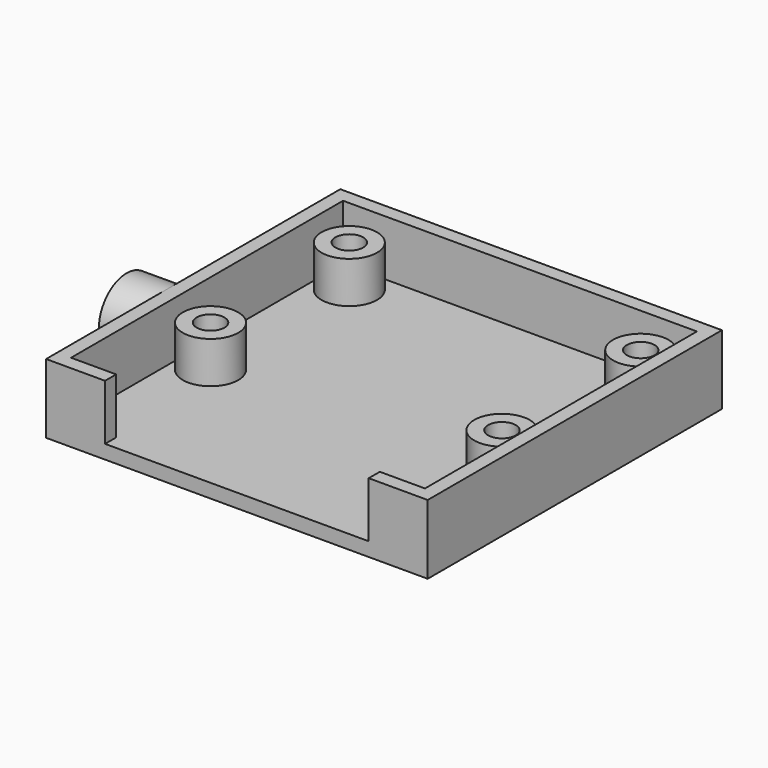
from build123d import *

# Parameters (mm, degrees)
SKETCH_W        = 27.5
SKETCH_H        = 26.5
PAD_DEPTH       = 5
SKETCH001_W     = 25.5
SKETCH001_H     = 24.5
POCKET_DEPTH    = 4
SKETCH002_W     = 19
SKETCH002_H     = 4
POCKET001_DEPTH = 1
SKETCH003_R     = 2
SKETCH003_R_2   = 1
PAD001_DEPTH    = 3
SKETCH004_R     = 2.5
SKETCH004_R_2   = 1.85
PAD002_DEPTH    = 3


with BuildPart() as part:
    # Sketch → Pad (new body)
    with BuildSketch(Plane.XY):
        with Locations((13.75, 13.25)):
            Rectangle(SKETCH_W, SKETCH_H)
    extrude(amount=PAD_DEPTH)

    # Sketch001 → Pocket (cut)
    with BuildSketch(Plane.XY.offset(5)):
        with Locations((13.75, 13.25)):
            Rectangle(SKETCH001_W, SKETCH001_H)
    extrude(amount=-POCKET_DEPTH, mode=Mode.SUBTRACT)

    # Sketch002 → Pocket001 (cut)
    with BuildSketch(Plane.XZ):
        with Locations((13.75, 3)):
            Rectangle(SKETCH002_W, SKETCH002_H)
    extrude(amount=-POCKET001_DEPTH, mode=Mode.SUBTRACT)

    # Sketch003 → Pad001 (new body)
    with BuildSketch(Plane.XY.offset(1)):
        with Locations((24.25, 10.75)):
            Circle(SKETCH003_R)
        with Locations((24.25, 10.75)):
            Circle(SKETCH003_R_2, mode=Mode.SUBTRACT)
        with Locations((3.25, 10.75)):
            Circle(SKETCH003_R)
        with Locations((3.25, 10.75)):
            Circle(SKETCH003_R_2, mode=Mode.SUBTRACT)
        with Locations((3.25, 23.25)):
            Circle(SKETCH003_R)
        with Locations((3.25, 23.25)):
            Circle(SKETCH003_R_2, mode=Mode.SUBTRACT)
        with Locations((24.25, 23.25)):
            Circle(SKETCH003_R)
        with Locations((24.25, 23.25)):
            Circle(SKETCH003_R_2, mode=Mode.SUBTRACT)
    extrude(amount=PAD001_DEPTH)

    # Sketch004 → Pad002 (new body)
    with BuildSketch(Plane(origin=(0, 0, 0), x_dir=(0, -1, 0), z_dir=(-1, 0, 0))):
        with Locations((-11, 2.5)):
            Circle(SKETCH004_R)
        with Locations((-11, 2.5)):
            Circle(SKETCH004_R_2, mode=Mode.SUBTRACT)
    extrude(amount=PAD002_DEPTH)


solid = part.part
